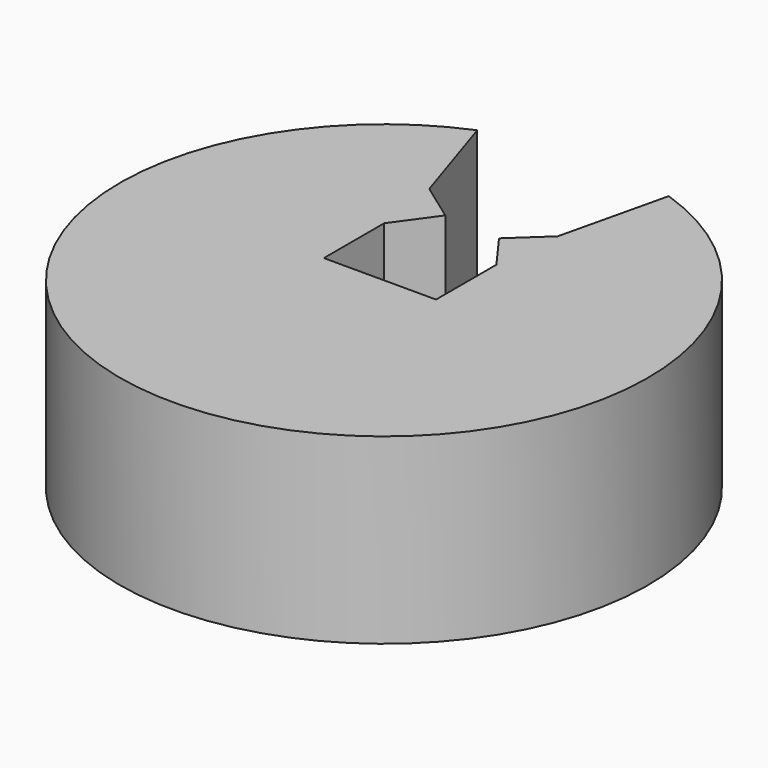
from build123d import *

# Parameters (mm, degrees)
F0_R     = 36.1502076958
F1_DEPTH = 25
F3_DEPTH = 25


with BuildPart() as f1:
    # F0 (on Top) → F1 (new body)
    with BuildSketch(Plane.XY):
        Circle(F0_R)
    extrude(amount=F1_DEPTH)

    # F2 (on face) → F3 (cut)
    with BuildSketch(Plane.XY.offset(25)):
        with BuildLine():
            Line((-8.2388771698, 0), (0, 0))
            Line((0, 0), (0, 36.1502076958))
            ThreePointArc((0, 36.1502076958), (-7.0998109764, 35.4461591791), (-13.9230751939, 33.3614372232))
            Line((-13.9230751939, 33.3614372232), (-9.4486636828, 19.5610804365))
            Line((-9.4486636828, 19.5610804365), (-4.2720828205, 15.8297549933))
            Line((-4.2720828205, 15.8297549933), (-8.2388771698, 10.326500982))
            Line((-8.2388771698, 10.326500982), (-8.2388771698, 0))
        make_face()
        with BuildLine():
            Line((0, 36.1502076958), (0, 0))
            Line((0, 0), (7.1280188859, 0))
            Line((7.1280188859, 0), (7.1280188859, 10.326500982))
            Line((7.1280188859, 10.326500982), (3.5276915878, 15.274326317))
            Line((3.5276915878, 15.274326317), (8.1382541345, 19.5610804365))
            Line((8.1382541345, 19.5610804365), (11.5974145733, 34.2394143008))
            ThreePointArc((11.5974145733, 34.2394143008), (5.8768859991, 35.6693107223), (0, 36.1502076958))
        make_face()
    extrude(amount=-F3_DEPTH, mode=Mode.SUBTRACT)


solid = f1.part
